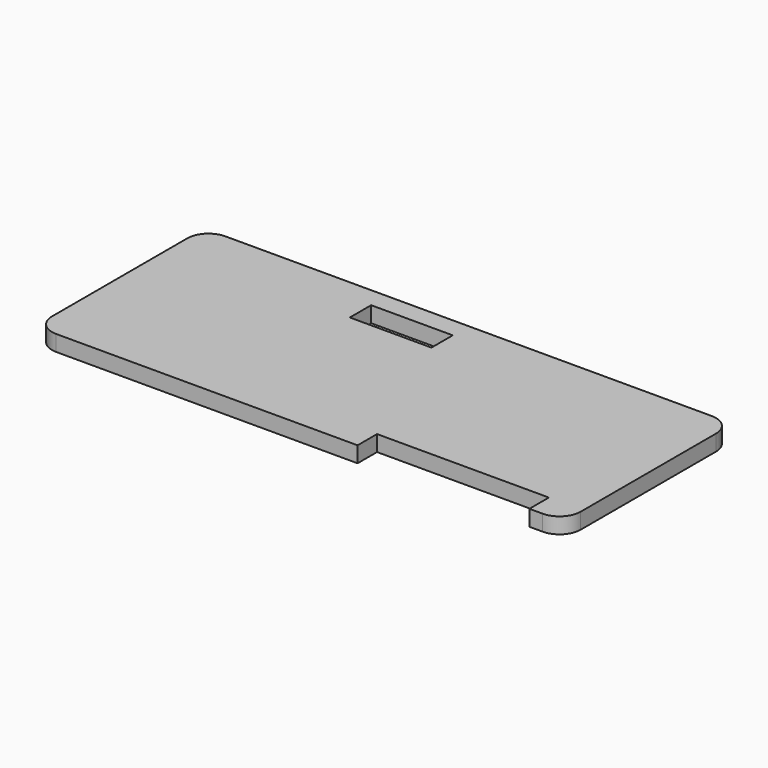
from build123d import *

# Parameters (mm, degrees)
F0_W     = 98
F0_H     = 32
F1_DEPTH = 19.05


with BuildPart() as f1:
    # F0 (on Top) → F1 (new body)
    with BuildSketch(Plane.XY):
        with BuildLine():
            Line((276.225, -127), (292.1, -127))
            ThreePointArc((292.1, -127), (310.060512, -119.560512), (317.5, -101.6))
            Line((317.5, -101.6), (317.5, 101.6))
            ThreePointArc((317.5, 101.6), (310.060512, 119.560512), (292.1, 127))
            Line((292.1, 127), (-292.1, 127))
            ThreePointArc((-292.1, 127), (-310.060512, 119.560512), (-317.5, 101.6))
            Line((-317.5, 101.6), (-317.5, -101.6))
            ThreePointArc((-317.5, -101.6), (-310.060512, -119.560512), (-292.1, -127))
            Line((-292.1, -127), (69.85, -127))
            Line((69.85, -127), (69.85, -107.95))
            ThreePointArc((69.85, -107.95), (54.134552, -101.440448), (47.625, -85.725))
            Line((47.625, -85.725), (47.625, 80.9625))
            ThreePointArc((47.625, 80.9625), (54.134552, 96.677948), (69.85, 103.1875))
            Line((69.85, 103.1875), (276.225, 103.1875))
            ThreePointArc((276.225, 103.1875), (291.940448, 96.677948), (298.45, 80.9625))
            Line((298.45, 80.9625), (298.45, -85.725))
            ThreePointArc((298.45, -85.725), (291.940448, -101.440448), (276.225, -107.95))
            Line((276.225, -107.95), (276.225, -127))
        make_face()
        with Locations((-49, 87.1875)):
            Rectangle(F0_W, F0_H, mode=Mode.SUBTRACT)
        with BuildLine():
            Line((276.225, -97.762614), (276.225, -107.95))
            ThreePointArc((276.225, -107.95), (291.940448, -101.440448), (298.45, -85.725))
            Line((298.45, -85.725), (298.45, 80.9625))
            ThreePointArc((298.45, 80.9625), (291.940448, 96.677948), (276.225, 103.1875))
            Line((276.225, 103.1875), (69.85, 103.1875))
            ThreePointArc((69.85, 103.1875), (54.134552, 96.677948), (47.625, 80.9625))
            Line((47.625, 80.9625), (47.625, -85.725))
            ThreePointArc((47.625, -85.725), (54.134552, -101.440448), (69.85, -107.95))
            Line((69.85, -107.95), (69.85, -97.762614))
            Line((69.85, -97.762614), (276.225, -97.762614))
        make_face()
    extrude(amount=F1_DEPTH)


solid = f1.part
